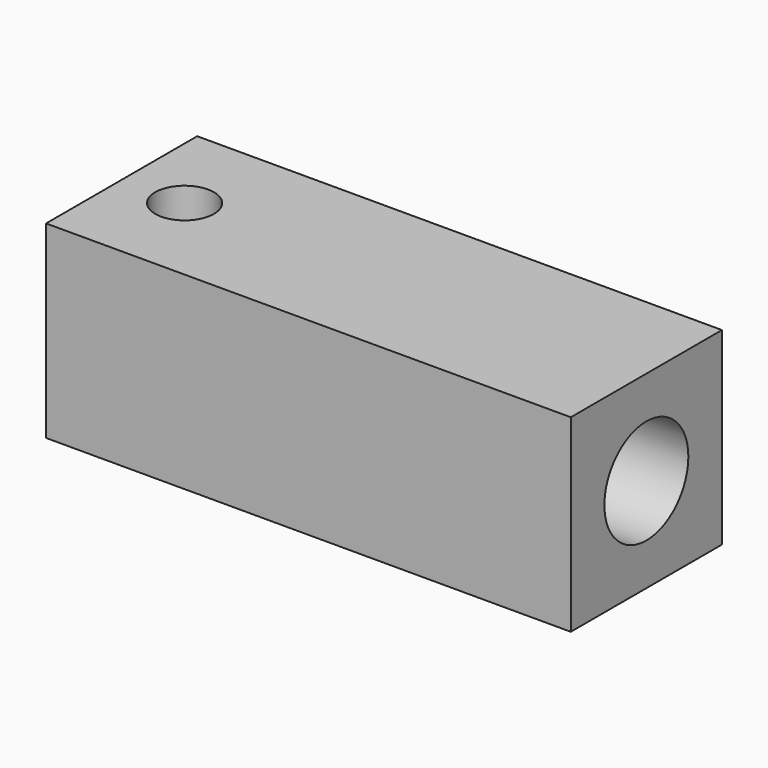
from build123d import *

# Parameters (mm, degrees)
F1_DEPTH = 9
F3_R     = 1.4
F4_DEPTH = 25
F2_R     = 2.5
F5_DEPTH = 25


with BuildPart() as f1:
    # F0 (on Top) → F1 (new body)
    with BuildSketch(Plane.XY):
        Polygon((-5, -4.5), (10, -4.5), (10, 0), (10, 4.5), (-15, 4.5), (-15, -2.5), (-15, -4.5), align=None)
    extrude(amount=F1_DEPTH)

    # F3 (on face) → F4 (cut)
    with BuildSketch(Plane.XY.offset(9)):
        with Locations((-12, 0)):
            Circle(F3_R)
    extrude(amount=-F4_DEPTH, mode=Mode.SUBTRACT)

    # F2 (on face) → F5 (cut)
    with BuildSketch(Plane.YZ.offset(10)):
        with Locations((0, 4.5)):
            Circle(F2_R)
    extrude(amount=-F5_DEPTH, mode=Mode.SUBTRACT)


solid = f1.part
